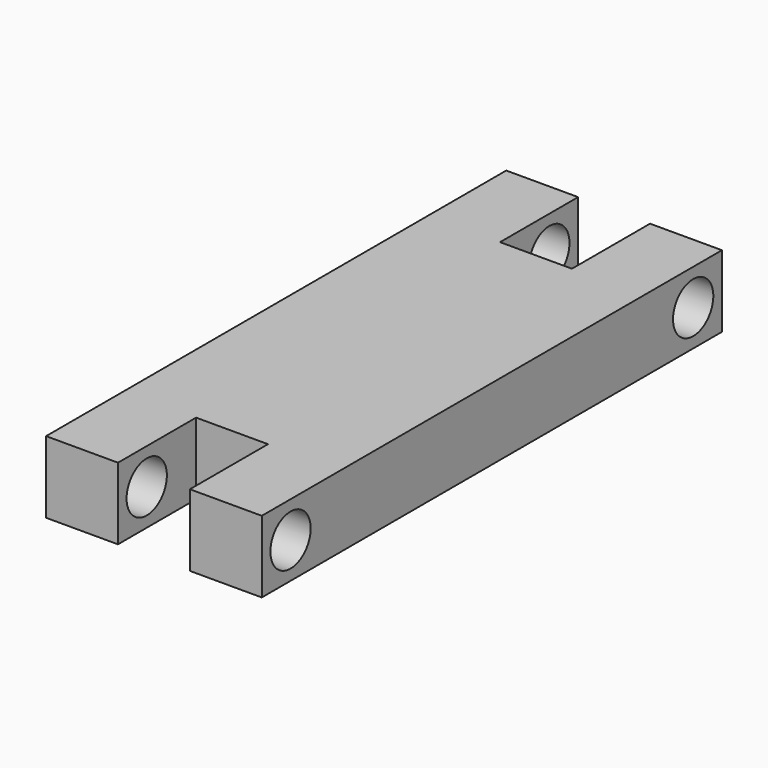
from build123d import *

# Parameters (mm, degrees)
F1_DEPTH = 12.7
F2_R     = 4.445
F3_DEPTH = 38.1


with BuildPart() as f1:
    # F0 (on Top) → F1 (new body)
    with BuildSketch(Plane.XY):
        Polygon((12.7, 50.8), (0, 50.8), (0, -50.8), (12.7, -50.8), (12.7, -33.558697), (25.4, -33.558697), (25.4, -50.8), (38.1, -50.8), (38.1, 50.8), (25.4, 50.8), (25.4, 33.558697), (12.7, 33.558697), align=None)
    extrude(amount=F1_DEPTH)

    # F2 (on face) → F3 (cut, through all)
    with BuildSketch(Plane(origin=(0, 0, 0), x_dir=(0, -1, 0), z_dir=(-1, 0, 0))):
        with Locations((-44.45, 6.35)):
            Circle(F2_R)
        with Locations((44.45, 6.35)):
            Circle(F2_R)
    extrude(amount=-F3_DEPTH, mode=Mode.SUBTRACT)


solid = f1.part
